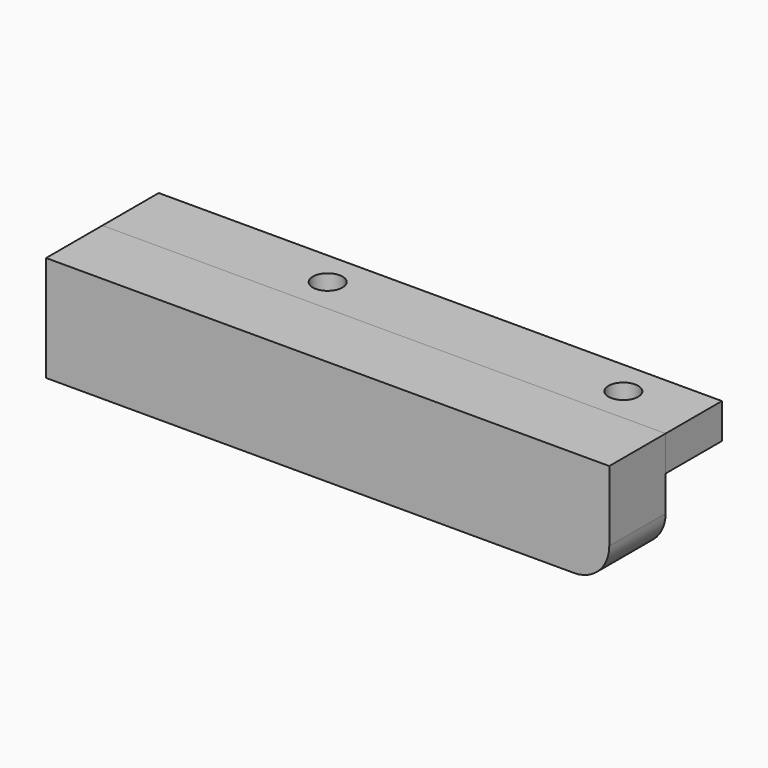
from build123d import *

# Parameters (mm, degrees)
F0_W     = 203.2
F0_H     = 25.4
F1_DEPTH = 12.7
F2_DEPTH = 38.1
F4_D     = 10.715625
F4_DEPTH = 50.8
F4_TIP   = 3.2192985354
F5_R     = 12.7


with BuildPart() as f1:
    # F0 (on Top) → F1 (new body)
    with BuildSketch(Plane.XY):
        with Locations((0, 9.4826666179)):
            Rectangle(F0_W, F0_H)
    extrude(amount=-F1_DEPTH)

    # F4
    with Locations(Plane.XY):
        with Locations((-30.48, 9.4826666179), (76.2, 9.4826666179)):
            Hole(F4_D / 2, depth=F4_DEPTH)
            with Locations((0, 0, -(F4_DEPTH + F4_TIP / 2))):  # 118° drill point
                Cone(0, F4_D / 2, F4_TIP, mode=Mode.SUBTRACT)


with BuildPart() as f2:
    # F0 (on Top) → F2 (new body)
    with BuildSketch(Plane.XY):
        Polygon((101.6, -3.2173333821), (-101.6, -3.2173333821), (-101.6, -28.6173333821), (88.9, -28.6173333821), (101.6, -28.6173333821), (101.6, -15.9173333821), align=None)
    extrude(amount=-F2_DEPTH)

    # F5
    f5_edges = [f2.edges().sort_by_distance(p)[0] for p in [
        (101.6, -15.917333, -38.1),
    ]]
    fillet(f5_edges, radius=F5_R)


solid = Compound([f1.part, f2.part])
